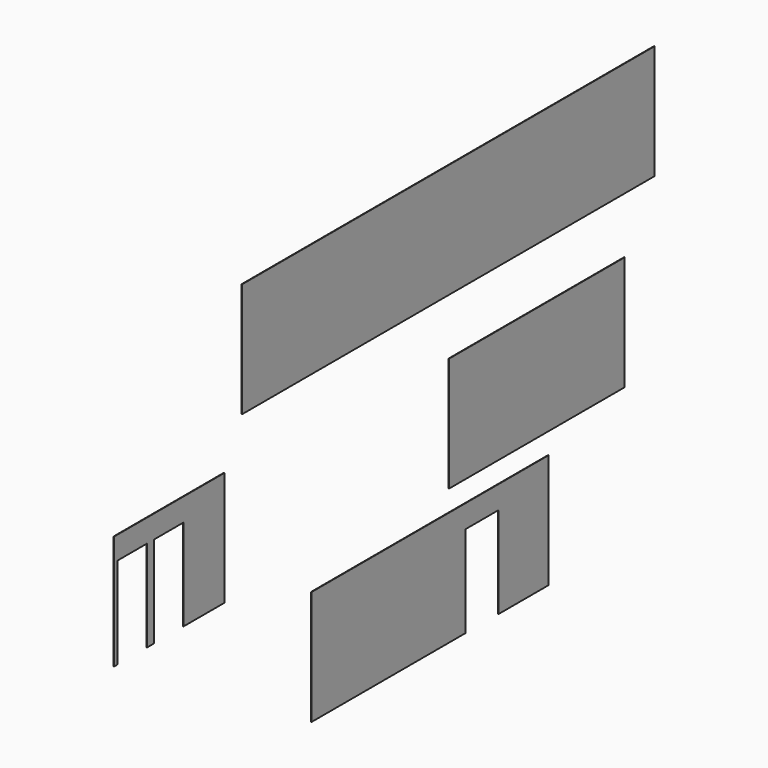
from build123d import *

# Parameters (mm, degrees)
F0_W     = 1127
F0_H     = 250
F0_W_2   = 480
F1_DEPTH = 1


with BuildPart() as f1:
    # F0 (on Right) → F1 (new body)
    with BuildSketch(Plane.YZ):
        with Locations((-376.345618, 218.181528)):
            Rectangle(F0_W, F0_H)
        Polygon((-987.774299, 0), (-1289.774299, 0), (-1289.774299, -250), (-1279.774299, -250), (-1279.774299, -50), (-1199.774299, -50), (-1199.774299, -250), (-1179.774299, -250), (-1179.774299, -50), (-1099.774299, -50), (-1099.774299, -250), (-987.774299, -250), align=None)
        with Locations((-134.656926, -154.733807)):
            Rectangle(F0_W_2, F0_H)
        Polygon((-102.484159, -326.041937), (-749.484159, -326.041937), (-749.484159, -576.041937), (-329.484159, -576.041937), (-329.484159, -376.041937), (-239.484159, -376.041937), (-239.484159, -576.041937), (-102.484159, -576.041937), align=None)
    extrude(amount=F1_DEPTH)


solid = f1.part
